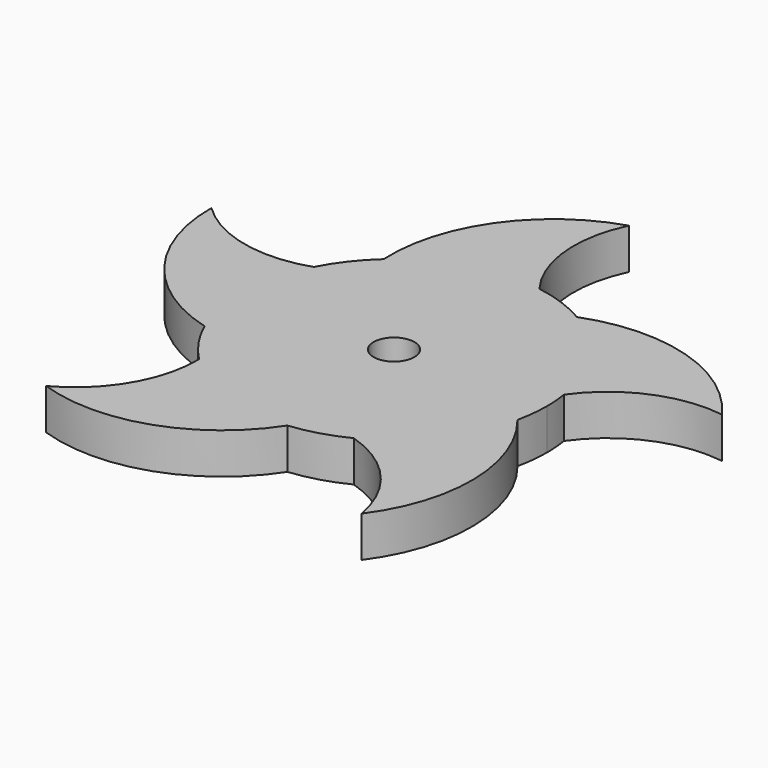
from build123d import *

# Parameters (mm, degrees)
F1_DEPTH = 2
F2_R     = 1
F3_DEPTH = 2.001


with BuildPart() as f1:
    # F0 (on Top) → F1 (new body)
    with BuildSketch(Plane.XY):
        with BuildLine():
            ThreePointArc((7.328048, -1.596782), (7.456888, -0.803007), (7.5, 0))
            ThreePointArc((7.5, 0), (7.477818, 0.576397), (7.411404, 1.149385))
            ThreePointArc((7.411404, 1.149385), (6.198583, 4.22227), (3.783121, 6.475955))
            ThreePointArc((3.783121, 6.475955), (2.532971, 7.059324), (1.197119, 7.403844))
            ThreePointArc((1.197119, 7.403844), (-2.10015, 7.199956), (-4.989951, 5.599142))
            ThreePointArc((-4.989951, 5.599142), (-5.931085, 4.59045), (-6.671544, 3.426442))
            ThreePointArc((-6.671544, 3.426442), (-7.496547, 0.227548), (-6.86708, -3.015495))
            ThreePointArc((-6.86708, -3.015495), (-6.198583, -4.22227), (-5.32036, -5.286186))
            ThreePointArc((-5.32036, -5.286186), (-2.532971, -7.059324), (0.745862, -7.462821))
            ThreePointArc((0.745862, -7.462821), (2.10015, -7.199956), (3.38338, -6.693485))
            ThreePointArc((3.38338, -6.693485), (5.931085, -4.59045), (7.328048, -1.596782))
        make_face()
        with BuildLine():
            ThreePointArc((3.783121, 6.475955), (6.198583, 4.22227), (7.411404, 1.149385))
            ThreePointArc((7.411404, 1.149385), (9.933827, 3.199804), (13.155392, 3.633804))
            ThreePointArc((13.155392, 3.633804), (8.954997, 6.656658), (3.783121, 6.475955))
        make_face()
        with BuildLine():
            ThreePointArc((7.521192, -11.388614), (9.098105, -6.459688), (7.328048, -1.596782))
            ThreePointArc((7.328048, -1.596782), (5.931085, -4.59045), (3.38338, -6.693485))
            ThreePointArc((3.38338, -6.693485), (6.112916, -8.458837), (7.521192, -11.388614))
        make_face()
        with BuildLine():
            ThreePointArc((-4.989951, 5.599142), (-2.10015, 7.199956), (1.197119, 7.403844))
            ThreePointArc((1.197119, 7.403844), (0.026527, 10.436425), (0.609287, 13.634428))
            ThreePointArc((0.609287, 13.634428), (-3.563612, 10.573729), (-4.989951, 5.599142))
        make_face()
        with BuildLine():
            ThreePointArc((-8.507039, -10.672354), (-3.332059, -10.648965), (0.745862, -7.462821))
            ThreePointArc((0.745862, -7.462821), (-2.532971, -7.059324), (-5.32036, -5.286186))
            ThreePointArc((-5.32036, -5.286186), (-6.155837, -8.427653), (-8.507039, -10.672354))
        make_face()
        with BuildLine():
            ThreePointArc((-6.86708, -3.015495), (-7.496547, 0.227548), (-6.671544, 3.426442))
            ThreePointArc((-6.671544, 3.426442), (-9.917433, 3.250261), (-12.778832, 4.792736))
            ThreePointArc((-12.778832, 4.792736), (-11.157431, -0.121734), (-6.86708, -3.015495))
        make_face()
    extrude(amount=F1_DEPTH)

    # F2 (on face) → F3 (cut, through all)
    with BuildSketch(Plane.XY.offset(2)):
        Circle(F2_R)
    extrude(amount=-F3_DEPTH, mode=Mode.SUBTRACT)


solid = f1.part
